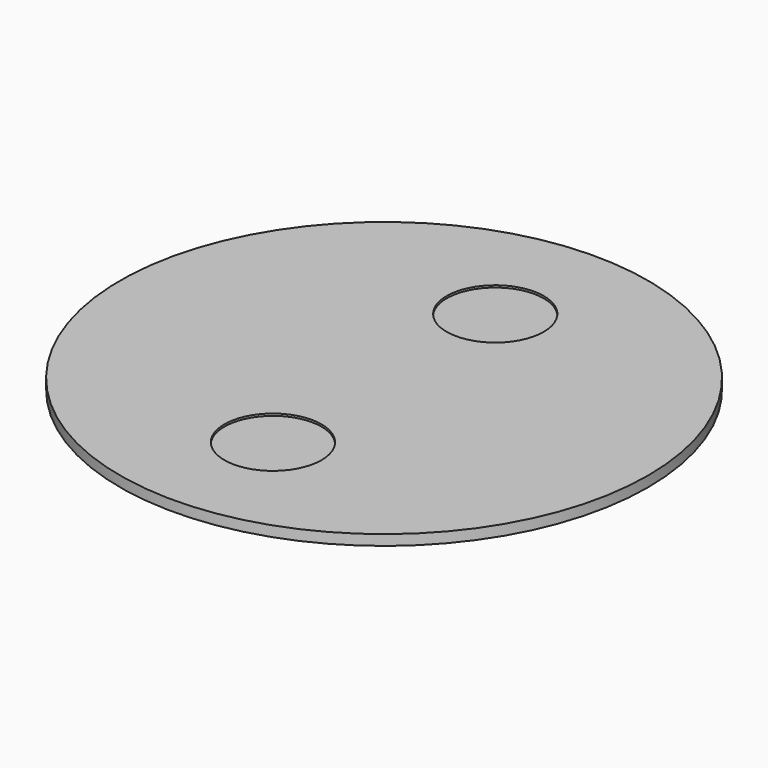
from build123d import *

# Parameters (mm, degrees)
F0_R     = 6.99
F1_DEPTH = 1.2
F0_R_2   = 38
F2_DEPTH = 1.5


with BuildPart() as f1:
    # F0 (on Top) → F1 (new body)
    with BuildSketch(Plane.XY):
        with Locations((0, 20)):
            Circle(F0_R)
        with Locations((0, -20)):
            Circle(F0_R)
    extrude(amount=F1_DEPTH)

    # F0 (on Top) → F2 (join)
    with BuildSketch(Plane.XY):
        Circle(F0_R_2)
        with Locations((0, -20)):
            Circle(F0_R, mode=Mode.SUBTRACT)
        with Locations((0, 20)):
            Circle(F0_R, mode=Mode.SUBTRACT)
    extrude(amount=F2_DEPTH)


solid = f1.part
